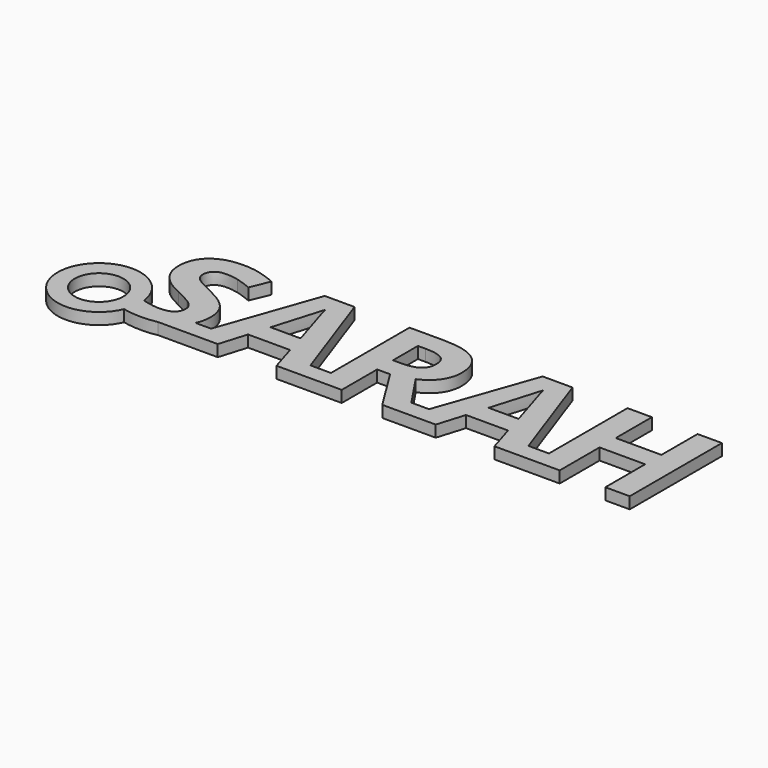
from build123d import *

# Parameters (mm, degrees)
F0_W     = 6.4316435079
F0_H     = 4.493846558
F0_W_2   = 6.4117312989
F1_DEPTH = 3.048
F3_DEPTH = 3.048


with BuildPart() as f1:
    # F0 (on Top) → F1 (new body)
    with BuildSketch(Plane.XY):
        with BuildLine():
            add(Edge.make_bspline(
                [(-93.7031314291, -15.5330784619), (-95.5081773044, -15.9512348509), (-97.720823026, -15.9512348509)],
                knots=[0.5796214889, 0.5796214889, 0.5796214889, 1, 1, 1], degree=2))
            add(Edge.make_bspline(
                [(-89.5003994093, -13.5850006811), (-91.2143187275, -14.9565208538), (-93.7031314291, -15.5330784619)],
                knots=[0, 0, 0, 0.5796214889, 0.5796214889, 0.5796214889], degree=2))
            add(Edge.make_bspline(
                [(-87.4056067535, -11.0392319039), (-88.1401222991, -12.4964736558), (-89.5003994093, -13.5850006811)],
                knots=[0.539974936, 0.539974936, 0.539974936, 1, 1, 1], degree=2))
            add(Edge.make_bspline(
                [(-86.5434363724, -7.1102140537), (-86.5434363724, -9.3287294042), (-87.4056067535, -11.0392319039)],
                knots=[0, 0, 0, 0.539974936, 0.539974936, 0.539974936], degree=2))
            add(Edge.make_bspline(
                [(-88.1198195851, -2.1022934895), (-86.5434363724, -4.1432949123), (-86.5434363724, -7.1102140537)],
                knots=[0, 0, 0, 1, 1, 1], degree=2))
            add(Edge.make_bspline(
                [(-93.9507781214, 1.9763906546), (-89.6962027978, -0.0612920667), (-88.1198195851, -2.1022934895)],
                knots=[0, 0, 0, 1, 1, 1], degree=2))
            add(Edge.make_bspline(
                [(-98.0228248625, 4.1003596149), (-97.1632811739, 3.5096307478), (-93.9507781214, 1.9763906546)],
                knots=[0, 0, 0, 1, 1, 1], degree=2))
            add(Edge.make_bspline(
                [(-99.2772940297, 5.3249604686), (-98.8823685511, 4.691088482), (-98.0228248625, 4.1003596149)],
                knots=[0, 0, 0, 1, 1, 1], degree=2))
            add(Edge.make_bspline(
                [(-99.6722195082, 6.8084200393), (-99.6722195082, 5.9588324552), (-99.2772940297, 5.3249604686)],
                knots=[0, 0, 0, 1, 1, 1], degree=2))
            add(Edge.make_bspline(
                [(-98.6965212671, 9.0253126416), (-99.6722195082, 8.1757250575), (-99.6722195082, 6.8084200393)],
                knots=[0, 0, 0, 1, 1, 1], degree=2))
            add(Edge.make_bspline(
                [(-95.8955372007, 9.8749002257), (-97.720823026, 9.8749002257), (-98.6965212671, 9.0253126416)],
                knots=[0, 0, 0, 1, 1, 1], degree=2))
            add(Edge.make_bspline(
                [(-92.7759577903, 9.4799747472), (-94.3622971075, 9.8749002257), (-95.8955372007, 9.8749002257)],
                knots=[0, 0, 0, 1, 1, 1], degree=2))
            add(Edge.make_bspline(
                [(-88.7603289747, 8.0894388185), (-91.189618473, 9.0850492686), (-92.7759577903, 9.4799747472)],
                knots=[0, 0, 0, 1, 1, 1], degree=2))
            Line((-88.7603289747, 8.0894388185), (-86.6894592384, 13.0940406812))
            add(Edge.make_bspline(
                [(-91.1796623685, 14.6671051924), (-89.0324624977, 14.1095633403), (-86.6894592384, 13.0940406812)],
                knots=[0, 0, 0, 1, 1, 1], degree=2))
            add(Edge.make_bspline(
                [(-95.6897777077, 15.2246470445), (-93.3268622393, 15.2246470445), (-91.1796623685, 14.6671051924)],
                knots=[0, 0, 0, 1, 1, 1], degree=2))
            add(Edge.make_bspline(
                [(-103.2298675168, 12.9247869047), (-100.5018948834, 15.2246470445), (-95.6897777077, 15.2246470445)],
                knots=[0, 0, 0, 1, 1, 1], degree=2))
            add(Edge.make_bspline(
                [(-105.9578401501, 6.5960231433), (-105.9578401501, 10.6249267649), (-103.2298675168, 12.9247869047)],
                knots=[0, 0, 0, 1, 1, 1], degree=2))
            add(Edge.make_bspline(
                [(-105.128164775, 2.8658026567), (-105.9578401501, 4.46541678), (-105.9578401501, 6.5960231433)],
                knots=[0, 0, 0, 1, 1, 1], degree=2))
            add(Edge.make_bspline(
                [(-102.9079534712, 0.0648185903), (-104.2984893999, 1.2661885335), (-105.128164775, 2.8658026567)],
                knots=[0, 0, 0, 1, 1, 1], degree=2))
            add(Edge.make_bspline(
                [(-98.7429830881, -2.444119744), (-101.5174175425, -1.1365513528), (-102.9079534712, 0.0648185903)],
                knots=[0, 0, 0, 1, 1, 1], degree=2))
            add(Edge.make_bspline(
                [(-94.81032181, -4.4983959728), (-95.7760639467, -3.8578865832), (-98.7429830881, -2.444119744)],
                knots=[0, 0, 0, 1, 1, 1], degree=2))
            add(Edge.make_bspline(
                [(-93.3467744483, -5.8358326775), (-93.8445796734, -5.1389053624), (-94.81032181, -4.4983959728)],
                knots=[0, 0, 0, 1, 1, 1], degree=2))
            add(Edge.make_bspline(
                [(-92.8489692233, -7.4221719947), (-92.8489692233, -6.5327599926), (-93.3467744483, -5.8358326775)],
                knots=[0, 0, 0, 1, 1, 1], degree=2))
            add(Edge.make_bspline(
                [(-93.9806464349, -9.8282305826), (-92.8489692233, -9.021786118), (-92.8489692233, -7.4221719947)],
                knots=[0, 0, 0, 1, 1, 1], degree=2))
            add(Edge.make_bspline(
                [(-97.2230178009, -10.6346750472), (-95.1123236466, -10.6346750472), (-93.9806464349, -9.8282305826)],
                knots=[0, 0, 0, 1, 1, 1], degree=2))
            add(Edge.make_bspline(
                [(-101.1158546609, -10.0771331951), (-98.9885669991, -10.6346750472), (-97.2230178009, -10.6346750472)],
                knots=[0, 0, 0, 1, 1, 1], degree=2))
            add(Edge.make_bspline(
                [(-106.3096225092, -8.1456489218), (-103.2431423228, -9.519591343), (-101.1158546609, -10.0771331951)],
                knots=[0, 0, 0, 1, 1, 1], degree=2))
            Line((-106.3096225092, -8.1456489218), (-106.3096225092, -14.1193116227))
            add(Edge.make_bspline(
                [(-97.720823026, -15.9512348509), (-102.5794020227, -15.9512348509), (-106.3096225092, -14.1193116227)],
                knots=[0, 0, 0, 1, 1, 1], degree=2))
        make_face()
        with BuildLine():
            Line((-93.7031314291, -15.5330784619), (-84.8641734131, -15.5330784619))
            Line((-84.8641734131, -15.5330784619), (-83.2842748739, -11.0392319039))
            Line((-83.2842748739, -11.0392319039), (-87.4056067535, -11.0392319039))
            add(Edge.make_bspline(
                [(-87.4056067535, -11.0392319039), (-88.1401222991, -12.4964736558), (-89.5003994093, -13.5850006811)],
                knots=[0.539974936, 0.539974936, 0.539974936, 1, 1, 1], degree=2))
            add(Edge.make_bspline(
                [(-89.5003994093, -13.5850006811), (-91.2143187275, -14.9565208538), (-93.7031314291, -15.5330784619)],
                knots=[0, 0, 0, 0.5796214889, 0.5796214889, 0.5796214889], degree=2))
        make_face()
        Polygon((-83.2842748739, -11.0392319039), (-84.8641734131, -15.5330784619), (-77.9347246801, -15.5330784619), (-76.5675709938, -11.0392319039), align=None)
        Polygon((-74.1580423726, 14.9193265065), (-83.2842748739, -11.0392319039), (-76.5675709938, -11.0392319039), (-75.7377442868, -8.3115839969), (-64.6798308872, -8.3115839969), (-63.8500041802, -11.0392319039), (-57.1391771702, -11.0392319039), (-66.2993572195, 14.9193265065), align=None)
        with BuildLine():
            add(Edge.make_bspline(
                [(-66.2197083835, -2.9220127601), (-69.2662763609, 6.8880688753), (-69.651245735, 8.1757250575)],
                knots=[0, 0, 0, 1, 1, 1], degree=2))
            Line((-66.2197083835, -2.9220127601), (-74.1182179546, -2.9220127601))
            add(Edge.make_bspline(
                [(-70.202150184, 10.2067703758), (-70.8858026931, 7.5518091754), (-74.1182179546, -2.9220127601)],
                knots=[0, 0, 0, 1, 1, 1], degree=2))
            add(Edge.make_bspline(
                [(-69.651245735, 8.1757250575), (-70.036215109, 9.4633812397), (-70.202150184, 10.2067703758)],
                knots=[0, 0, 0, 1, 1, 1], degree=2))
        make_face(mode=Mode.SUBTRACT)
        Polygon((-63.8500041802, -11.0392319039), (-62.4828504939, -15.5330784619), (-55.5534017609, -15.5330784619), (-57.1391771702, -11.0392319039), align=None)
        Polygon((-57.1391771702, -11.0392319039), (-55.5534017609, -15.5330784619), (-51.7368950354, -15.5330784619), (-51.7368950354, -11.0392319039), align=None)
        with Locations((-48.5210732814, -13.2861551829)):
            Rectangle(F0_W, F0_H)
        with BuildLine():
            Line((-51.7368950354, 14.7932158494), (-51.7368950354, -11.0392319039))
            Line((-51.7368950354, -11.0392319039), (-45.3052515275, -11.0392319039))
            Line((-45.3052515275, -11.0392319039), (-45.3052515275, -3.8977110012))
            Line((-45.3052515275, -3.8977110012), (-41.886988982, -3.8977110012))
            Line((-41.886988982, -3.8977110012), (-37.4423801373, -11.0392319039))
            Line((-37.4423801373, -11.0392319039), (-30.5711537413, -11.0392319039))
            add(Edge.make_bspline(
                [(-36.4310437152, -2.318009087), (-32.8468856368, -7.6699350549), (-30.5711537413, -11.0392319039)],
                knots=[0, 0, 0, 0.5232500412, 0.5232500412, 0.5232500412], degree=2))
            add(Edge.make_bspline(
                [(-32.2594359291, 0.9475931895), (-33.7296206938, -1.1365513528), (-36.4310437152, -2.318009087)],
                knots=[0, 0, 0, 1, 1, 1], degree=2))
            add(Edge.make_bspline(
                [(-30.7892511644, 5.7066111411), (-30.7892511644, 3.0317377318), (-32.2594359291, 0.9475931895)],
                knots=[0, 0, 0, 1, 1, 1], degree=2))
            add(Edge.make_bspline(
                [(-33.7528516043, 12.5431362321), (-30.7892511644, 10.2930566148), (-30.7892511644, 5.7066111411)],
                knots=[0, 0, 0, 1, 1, 1], degree=2))
            add(Edge.make_bspline(
                [(-42.9025116411, 14.7932158494), (-36.7164520443, 14.7932158494), (-33.7528516043, 12.5431362321)],
                knots=[0, 0, 0, 1, 1, 1], degree=2))
            Line((-42.9025116411, 14.7932158494), (-51.7368950354, 14.7932158494))
        make_face()
        with BuildLine():
            Line((-43.2343817912, 1.3325625635), (-45.3052515275, 1.3325625635))
            Line((-45.3052515275, 1.3325625635), (-45.3052515275, 9.5231178667))
            Line((-45.3052515275, 9.5231178667), (-43.3538550452, 9.5231178667))
            add(Edge.make_bspline(
                [(-38.76409087, 8.6104749541), (-40.2475504408, 9.5231178667), (-43.3538550452, 9.5231178667)],
                knots=[0, 0, 0, 1, 1, 1], degree=2))
            add(Edge.make_bspline(
                [(-37.2806312993, 5.5406760661), (-37.2806312993, 7.6978320414), (-38.76409087, 8.6104749541)],
                knots=[0, 0, 0, 1, 1, 1], degree=2))
            add(Edge.make_bspline(
                [(-38.730903855, 2.3480852227), (-37.2806312993, 3.3636078818), (-37.2806312993, 5.5406760661)],
                knots=[0, 0, 0, 1, 1, 1], degree=2))
            add(Edge.make_bspline(
                [(-43.2343817912, 1.3325625635), (-40.1811764107, 1.3325625635), (-38.730903855, 2.3480852227)],
                knots=[0, 0, 0, 1, 1, 1], degree=2))
        make_face(mode=Mode.SUBTRACT)
        with BuildLine():
            Line((-37.4423801373, -11.0392319039), (-34.645582308, -15.5330784619))
            Line((-34.645582308, -15.5330784619), (-27.5103740819, -15.5330784619))
            add(Edge.make_bspline(
                [(-30.5711537413, -11.0392319039), (-28.4976611434, -14.1091067387), (-27.5103740819, -15.5330784619)],
                knots=[0.5232500412, 0.5232500412, 0.5232500412, 1, 1, 1], degree=2))
            Line((-30.5711537413, -11.0392319039), (-37.4423801373, -11.0392319039))
        make_face()
        Polygon((-25.9304755427, -11.0392319039), (-27.5103740819, -15.5330784619), (-20.5809253489, -15.5330784619), (-19.2137716626, -11.0392319039), align=None)
        Polygon((-16.8042430414, 14.9193265065), (-25.9304755427, -11.0392319039), (-19.2137716626, -11.0392319039), (-18.3839449556, -8.3115839969), (-7.3260315561, -8.3115839969), (-6.4962048491, -11.0392319039), (0.214622161, -11.0392319039), (-8.9455578883, 14.9193265065), align=None)
        with BuildLine():
            add(Edge.make_bspline(
                [(-8.8659090523, -2.9220127601), (-11.9124770297, 6.8880688753), (-12.2974464038, 8.1757250575)],
                knots=[0, 0, 0, 1, 1, 1], degree=2))
            Line((-8.8659090523, -2.9220127601), (-16.7644186234, -2.9220127601))
            add(Edge.make_bspline(
                [(-12.8483508528, 10.2067703758), (-13.5320033619, 7.5518091754), (-16.7644186234, -2.9220127601)],
                knots=[0, 0, 0, 1, 1, 1], degree=2))
            add(Edge.make_bspline(
                [(-12.2974464038, 8.1757250575), (-12.6824157778, 9.4633812397), (-12.8483508528, 10.2067703758)],
                knots=[0, 0, 0, 1, 1, 1], degree=2))
        make_face(mode=Mode.SUBTRACT)
        Polygon((-6.4962048491, -11.0392319039), (-5.1290511627, -15.5330784619), (1.8003975703, -15.5330784619), (0.214622161, -11.0392319039), align=None)
        with Locations((8.8327260498, -13.2861551829)):
            Rectangle(F0_W, F0_H)
        Polygon((5.6169042958, 14.7932158494), (5.6169042958, -11.0392319039), (12.0485478037, -11.0392319039), (12.0485478037, -2.444119744), (24.0556098324, -2.444119744), (24.0556098324, -11.0392319039), (30.4673411313, -11.0392319039), (30.4673411313, 14.7932158494), (24.0556098324, 14.7932158494), (24.0556098324, 2.9056270747), (12.0485478037, 2.9056270747), (12.0485478037, 14.7932158494), align=None)
        with Locations((27.2614754819, -13.2861551829)):
            Rectangle(F0_W_2, F0_H)
        Polygon((0.214622161, -11.0392319039), (1.8003975703, -15.5330784619), (5.6169042958, -15.5330784619), (5.6169042958, -11.0392319039), align=None)
        with BuildLine():
            add(Edge.make_bspline(
                [(-30.5711537413, -11.0392319039), (-28.4976611434, -14.1091067387), (-27.5103740819, -15.5330784619)],
                knots=[0.5232500412, 0.5232500412, 0.5232500412, 1, 1, 1], degree=2))
            Line((-27.5103740819, -15.5330784619), (-25.9304755427, -11.0392319039))
            Line((-25.9304755427, -11.0392319039), (-30.5711537413, -11.0392319039))
        make_face()
    extrude(amount=F1_DEPTH)

    # F2 (on face) → F3 (join)
    with BuildSketch(Plane.XY.offset(3.048)):
        with BuildLine():
            add(Edge.make_bspline(
                [(-101.8623637859, -9.8651655257), (-103.7618212116, -9.2871962565), (-106.3096225092, -8.1456489218)],
                knots=[8.3558901367, 8.3558901367, 8.3558901367, 9.6058387309, 9.6058387309, 9.6058387309], degree=2))
            ThreePointArc((-101.8623637859, -9.8651655257), (-123.4569962159, -9.5743296119), (-102.6641187967, -15.4111938339))
            add(Edge.make_bspline(
                [(-106.3096225092, -14.1193116227), (-104.6047247744, -14.9565923608), (-102.6641187967, -15.4111938339)],
                knots=[0, 0, 0, 0.4570501237, 0.4570501237, 0.4570501237], degree=2))
            Line((-106.3096225092, -14.1193116227), (-106.3096225092, -11.6707719543))
            ThreePointArc((-106.3096225092, -11.6707719543), (-119.0704975277, -11.1324802723), (-106.3096225092, -10.5941885902))
            Line((-106.3096225092, -10.5941885902), (-106.3096225092, -8.1456489218))
        make_face()
    extrude(amount=-F3_DEPTH)


solid = f1.part
